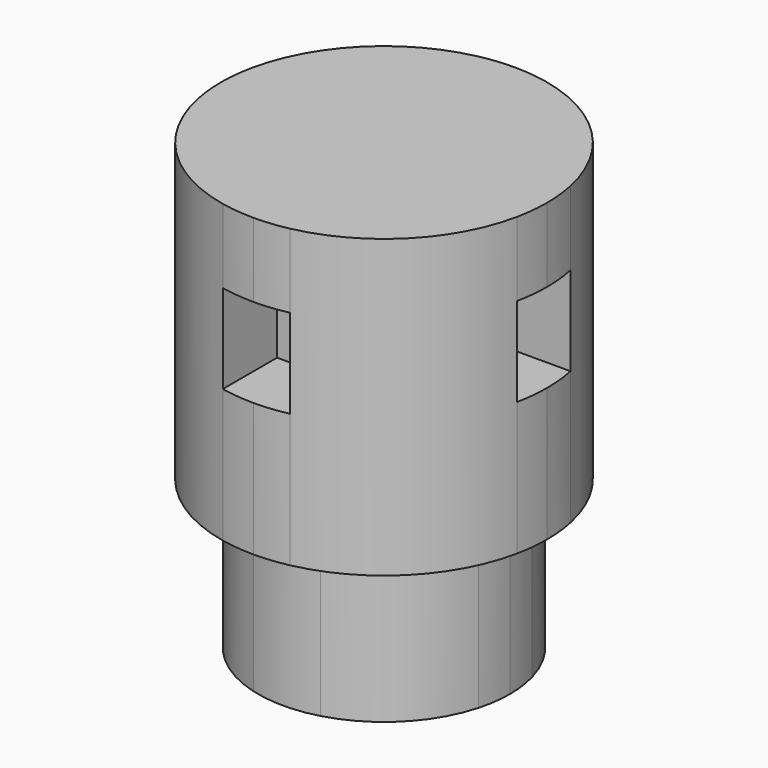
from build123d import *

# Parameters (mm, degrees)
F0_W     = 5.7404
F0_H     = 2.54
F0_W_2   = 2.54
F0_H_2   = 5.7404
F1_DEPTH = 25.4
F2_START = 11.43
F2_DEPTH = 7.62
F3_DEPTH = 12.7


with BuildPart() as f1:
    # F0 (on Top) → F1 (new body)
    with BuildSketch(Plane.XY):
        with BuildLine():
            Line((-2.8702, 10.4064392066), (-2.8702, 13.6784615832))
            ThreePointArc((-2.8702, 13.6784615832), (-9.8827718612, 9.8827718612), (-13.6784615832, 2.8702))
            Line((-13.6784615832, 2.8702), (-10.4064392066, 2.8702))
            ThreePointArc((-10.4064392066, 2.8702), (-7.6332177029, 7.6332177029), (-2.8702, 10.4064392066))
        make_face()
        with BuildLine():
            Line((-2.8702, 10.4064392066), (2.8702, 10.4064392066))
            ThreePointArc((2.8702, 10.4064392066), (0, 10.795), (-2.8702, 10.4064392066))
        make_face()
        with BuildLine():
            Line((2.8702, 10.4064392066), (2.8702, 13.6784615832))
            ThreePointArc((2.8702, 13.6784615832), (1.4428085068, 13.9016784215), (0, 13.97635))
            ThreePointArc((0, 13.97635), (-1.4428085068, 13.9016784215), (-2.8702, 13.6784615832))
            Line((-2.8702, 13.6784615832), (-2.8702, 10.4064392066))
            ThreePointArc((-2.8702, 10.4064392066), (0, 10.795), (2.8702, 10.4064392066))
        make_face()
        with BuildLine():
            Line((10.4064392066, 2.8702), (13.6784615832, 2.8702))
            ThreePointArc((13.6784615832, 2.8702), (9.8827718612, 9.8827718612), (2.8702, 13.6784615832))
            Line((2.8702, 13.6784615832), (2.8702, 10.4064392066))
            ThreePointArc((2.8702, 10.4064392066), (7.6332177029, 7.6332177029), (10.4064392066, 2.8702))
        make_face()
        with BuildLine():
            ThreePointArc((13.6784615832, -2.8702), (13.9016784215, -1.4428085068), (13.97635, 0))
            ThreePointArc((13.97635, 0), (13.9016784215, 1.4428085068), (13.6784615832, 2.8702))
            Line((13.6784615832, 2.8702), (10.4064392066, 2.8702))
            ThreePointArc((10.4064392066, 2.8702), (10.6974187596, 1.4481908999), (10.795, 0))
            ThreePointArc((10.795, 0), (10.6974187596, -1.4481908999), (10.4064392066, -2.8702))
            Line((10.4064392066, -2.8702), (13.6784615832, -2.8702))
        make_face()
        with Locations((0, 9.1364392066)):
            Rectangle(F0_W, F0_H)
        with BuildLine():
            ThreePointArc((10.795, 0), (10.6974187596, 1.4481908999), (10.4064392066, 2.8702))
            Line((10.4064392066, 2.8702), (10.4064392066, -2.8702))
            ThreePointArc((10.4064392066, -2.8702), (10.6974187596, -1.4481908999), (10.795, 0))
        make_face()
        with BuildLine():
            ThreePointArc((2.8702, -13.6784615832), (9.8827718612, -9.8827718612), (13.6784615832, -2.8702))
            Line((13.6784615832, -2.8702), (10.4064392066, -2.8702))
            ThreePointArc((10.4064392066, -2.8702), (7.6332177029, -7.6332177029), (2.8702, -10.4064392066))
            Line((2.8702, -10.4064392066), (2.8702, -13.6784615832))
        make_face()
        with BuildLine():
            ThreePointArc((-13.6784615832, -2.8702), (-9.8827718612, -9.8827718612), (-2.8702, -13.6784615832))
            Line((-2.8702, -13.6784615832), (-2.8702, -10.4064392066))
            ThreePointArc((-2.8702, -10.4064392066), (-7.6332177029, -7.6332177029), (-10.4064392066, -2.8702))
            Line((-10.4064392066, -2.8702), (-13.6784615832, -2.8702))
        make_face()
        with BuildLine():
            Line((-10.4064392066, 2.8702), (-13.6784615832, 2.8702))
            ThreePointArc((-13.6784615832, 2.8702), (-13.9016784215, 1.4428085068), (-13.97635, 0))
            ThreePointArc((-13.97635, 0), (-13.9016784215, -1.4428085068), (-13.6784615832, -2.8702))
            Line((-13.6784615832, -2.8702), (-10.4064392066, -2.8702))
            ThreePointArc((-10.4064392066, -2.8702), (-10.795, 0), (-10.4064392066, 2.8702))
        make_face()
        with BuildLine():
            Line((-10.4064392066, -2.8702), (-10.4064392066, 2.8702))
            ThreePointArc((-10.4064392066, 2.8702), (-10.795, 0), (-10.4064392066, -2.8702))
        make_face()
        with BuildLine():
            ThreePointArc((0, -13.97635), (1.4428085068, -13.9016784215), (2.8702, -13.6784615832))
            Line((2.8702, -13.6784615832), (2.8702, -10.4064392066))
            ThreePointArc((2.8702, -10.4064392066), (0, -10.795), (-2.8702, -10.4064392066))
            Line((-2.8702, -10.4064392066), (-2.8702, -13.6784615832))
            ThreePointArc((-2.8702, -13.6784615832), (-1.4428085068, -13.9016784215), (0, -13.97635))
        make_face()
        with BuildLine():
            ThreePointArc((-2.8702, -10.4064392066), (0, -10.795), (2.8702, -10.4064392066))
            Line((2.8702, -10.4064392066), (-2.8702, -10.4064392066))
        make_face()
        with Locations((-9.1364392066, 0)):
            Rectangle(F0_W_2, F0_H_2)
        with BuildLine():
            Line((7.8664392066, 2.8702), (10.4064392066, 2.8702))
            ThreePointArc((10.4064392066, 2.8702), (7.6332177029, 7.6332177029), (2.8702, 10.4064392066))
            Line((2.8702, 10.4064392066), (2.8702, 7.8664392066))
            Line((2.8702, 7.8664392066), (-2.8702, 7.8664392066))
            Line((-2.8702, 7.8664392066), (-2.8702, 10.4064392066))
            ThreePointArc((-2.8702, 10.4064392066), (-7.6332177029, 7.6332177029), (-10.4064392066, 2.8702))
            Line((-10.4064392066, 2.8702), (-7.8664392066, 2.8702))
            Line((-7.8664392066, 2.8702), (-7.8664392066, -2.8702))
            Line((-7.8664392066, -2.8702), (-10.4064392066, -2.8702))
            ThreePointArc((-10.4064392066, -2.8702), (-7.6332177029, -7.6332177029), (-2.8702, -10.4064392066))
            Line((-2.8702, -10.4064392066), (-2.8702, -7.8664392066))
            Line((-2.8702, -7.8664392066), (2.8702, -7.8664392066))
            Line((2.8702, -7.8664392066), (2.8702, -10.4064392066))
            ThreePointArc((2.8702, -10.4064392066), (7.6332177029, -7.6332177029), (10.4064392066, -2.8702))
            Line((10.4064392066, -2.8702), (7.8664392066, -2.8702))
            Line((7.8664392066, -2.8702), (7.8664392066, 2.8702))
        make_face()
        with Locations((9.1364392066, 0)):
            Rectangle(F0_W_2, F0_H_2)
        with Locations((0, -9.1364392066)):
            Rectangle(F0_W, F0_H)
    extrude(amount=F1_DEPTH)

    # F0 (on Top) → F2 (cut)
    with BuildSketch(Plane.XY.offset(F2_START)):
        with BuildLine():
            Line((-10.4064392066, 2.8702), (-13.6784615832, 2.8702))
            ThreePointArc((-13.6784615832, 2.8702), (-13.9016784215, 1.4428085068), (-13.97635, 0))
            ThreePointArc((-13.97635, 0), (-13.9016784215, -1.4428085068), (-13.6784615832, -2.8702))
            Line((-13.6784615832, -2.8702), (-10.4064392066, -2.8702))
            ThreePointArc((-10.4064392066, -2.8702), (-10.795, 0), (-10.4064392066, 2.8702))
        make_face()
        with BuildLine():
            Line((-10.4064392066, -2.8702), (-10.4064392066, 2.8702))
            ThreePointArc((-10.4064392066, 2.8702), (-10.795, 0), (-10.4064392066, -2.8702))
        make_face()
        with BuildLine():
            ThreePointArc((0, -13.97635), (1.4428085068, -13.9016784215), (2.8702, -13.6784615832))
            Line((2.8702, -13.6784615832), (2.8702, -10.4064392066))
            ThreePointArc((2.8702, -10.4064392066), (0, -10.795), (-2.8702, -10.4064392066))
            Line((-2.8702, -10.4064392066), (-2.8702, -13.6784615832))
            ThreePointArc((-2.8702, -13.6784615832), (-1.4428085068, -13.9016784215), (0, -13.97635))
        make_face()
        with BuildLine():
            ThreePointArc((-2.8702, -10.4064392066), (0, -10.795), (2.8702, -10.4064392066))
            Line((2.8702, -10.4064392066), (-2.8702, -10.4064392066))
        make_face()
        with BuildLine():
            Line((2.8702, 10.4064392066), (2.8702, 13.6784615832))
            ThreePointArc((2.8702, 13.6784615832), (1.4428085068, 13.9016784215), (0, 13.97635))
            ThreePointArc((0, 13.97635), (-1.4428085068, 13.9016784215), (-2.8702, 13.6784615832))
            Line((-2.8702, 13.6784615832), (-2.8702, 10.4064392066))
            ThreePointArc((-2.8702, 10.4064392066), (0, 10.795), (2.8702, 10.4064392066))
        make_face()
        with BuildLine():
            Line((-2.8702, 10.4064392066), (2.8702, 10.4064392066))
            ThreePointArc((2.8702, 10.4064392066), (0, 10.795), (-2.8702, 10.4064392066))
        make_face()
        with BuildLine():
            ThreePointArc((10.795, 0), (10.6974187596, 1.4481908999), (10.4064392066, 2.8702))
            Line((10.4064392066, 2.8702), (10.4064392066, -2.8702))
            ThreePointArc((10.4064392066, -2.8702), (10.6974187596, -1.4481908999), (10.795, 0))
        make_face()
        with BuildLine():
            ThreePointArc((13.6784615832, -2.8702), (13.9016784215, -1.4428085068), (13.97635, 0))
            ThreePointArc((13.97635, 0), (13.9016784215, 1.4428085068), (13.6784615832, 2.8702))
            Line((13.6784615832, 2.8702), (10.4064392066, 2.8702))
            ThreePointArc((10.4064392066, 2.8702), (10.6974187596, 1.4481908999), (10.795, 0))
            ThreePointArc((10.795, 0), (10.6974187596, -1.4481908999), (10.4064392066, -2.8702))
            Line((10.4064392066, -2.8702), (13.6784615832, -2.8702))
        make_face()
        with Locations((-9.1364392066, 0)):
            Rectangle(F0_W_2, F0_H_2)
        with Locations((0, 9.1364392066)):
            Rectangle(F0_W, F0_H)
        with Locations((9.1364392066, 0)):
            Rectangle(F0_W_2, F0_H_2)
        with Locations((0, -9.1364392066)):
            Rectangle(F0_W, F0_H)
    extrude(amount=F2_DEPTH, mode=Mode.SUBTRACT)


with BuildPart() as f3:
    # F0 (on Top) → F3 (new body)
    with BuildSketch(Plane.XY):
        with Locations((0, 9.1364392066)):
            Rectangle(F0_W, F0_H)
        with BuildLine():
            Line((-10.4064392066, -2.8702), (-10.4064392066, 2.8702))
            ThreePointArc((-10.4064392066, 2.8702), (-10.795, 0), (-10.4064392066, -2.8702))
        make_face()
        with BuildLine():
            ThreePointArc((-2.8702, -10.4064392066), (0, -10.795), (2.8702, -10.4064392066))
            Line((2.8702, -10.4064392066), (-2.8702, -10.4064392066))
        make_face()
        with BuildLine():
            Line((-2.8702, 10.4064392066), (2.8702, 10.4064392066))
            ThreePointArc((2.8702, 10.4064392066), (0, 10.795), (-2.8702, 10.4064392066))
        make_face()
        with BuildLine():
            ThreePointArc((10.795, 0), (10.6974187596, 1.4481908999), (10.4064392066, 2.8702))
            Line((10.4064392066, 2.8702), (10.4064392066, -2.8702))
            ThreePointArc((10.4064392066, -2.8702), (10.6974187596, -1.4481908999), (10.795, 0))
        make_face()
        with BuildLine():
            Line((7.8664392066, 2.8702), (10.4064392066, 2.8702))
            ThreePointArc((10.4064392066, 2.8702), (7.6332177029, 7.6332177029), (2.8702, 10.4064392066))
            Line((2.8702, 10.4064392066), (2.8702, 7.8664392066))
            Line((2.8702, 7.8664392066), (-2.8702, 7.8664392066))
            Line((-2.8702, 7.8664392066), (-2.8702, 10.4064392066))
            ThreePointArc((-2.8702, 10.4064392066), (-7.6332177029, 7.6332177029), (-10.4064392066, 2.8702))
            Line((-10.4064392066, 2.8702), (-7.8664392066, 2.8702))
            Line((-7.8664392066, 2.8702), (-7.8664392066, -2.8702))
            Line((-7.8664392066, -2.8702), (-10.4064392066, -2.8702))
            ThreePointArc((-10.4064392066, -2.8702), (-7.6332177029, -7.6332177029), (-2.8702, -10.4064392066))
            Line((-2.8702, -10.4064392066), (-2.8702, -7.8664392066))
            Line((-2.8702, -7.8664392066), (2.8702, -7.8664392066))
            Line((2.8702, -7.8664392066), (2.8702, -10.4064392066))
            ThreePointArc((2.8702, -10.4064392066), (7.6332177029, -7.6332177029), (10.4064392066, -2.8702))
            Line((10.4064392066, -2.8702), (7.8664392066, -2.8702))
            Line((7.8664392066, -2.8702), (7.8664392066, 2.8702))
        make_face()
        with Locations((0, -9.1364392066)):
            Rectangle(F0_W, F0_H)
        with Locations((-9.1364392066, 0)):
            Rectangle(F0_W_2, F0_H_2)
        with Locations((9.1364392066, 0)):
            Rectangle(F0_W_2, F0_H_2)
    extrude(amount=-F3_DEPTH)


solid = Compound([f1.part, f3.part])
